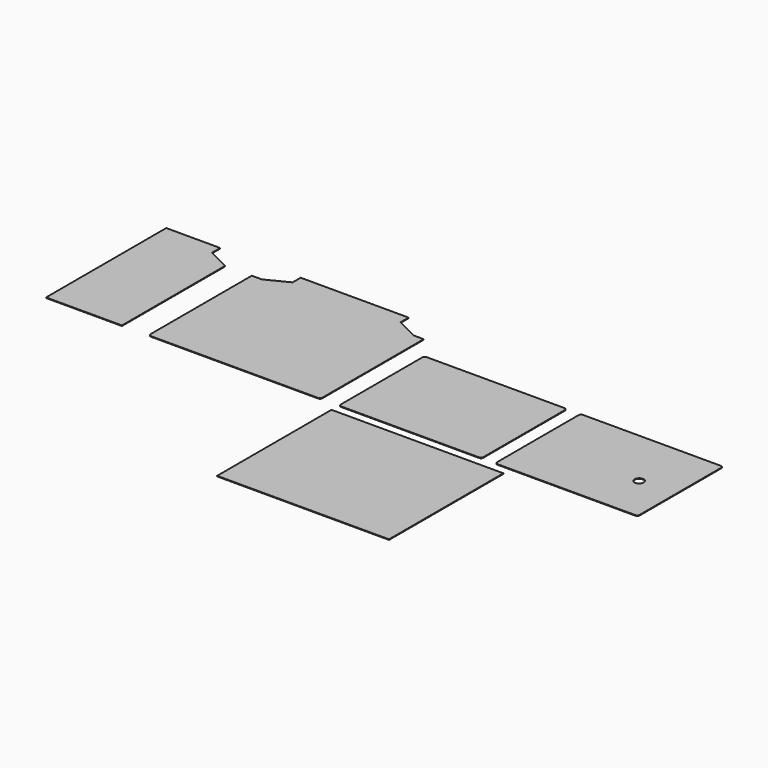
from build123d import *

# Parameters (mm, degrees)
F0_R     = 12.5
F0_W     = 475
F0_H     = 395
F1_DEPTH = 1.6002


with BuildPart() as f1:
    # F0 (on Top) → F1 (new body)
    with BuildSketch(Plane.XY):
        with BuildLine():
            ThreePointArc((419.4, 288.65), (417.540128, 293.140128), (413.05, 295))
            Line((413.05, 295), (31.75, 295))
            ThreePointArc((31.75, 295), (27.259872, 293.140128), (25.4, 288.65))
            Line((25.4, 288.65), (25.4, 6.35))
            ThreePointArc((25.4, 6.35), (27.259872, 1.859872), (31.75, 0))
            Line((31.75, 0), (413.05, 0))
            ThreePointArc((413.05, 0), (417.540128, 1.859872), (419.4, 6.35))
            Line((419.4, 6.35), (419.4, 288.65))
        make_face()
        with BuildLine():
            ThreePointArc((457.2, 6.35), (459.059872, 1.859872), (463.55, 0))
            Line((463.55, 0), (844.85, 0))
            ThreePointArc((844.85, 0), (849.340128, 1.859872), (851.2, 6.35))
            Line((851.2, 6.35), (851.2, 288.65))
            ThreePointArc((851.2, 288.65), (849.340128, 293.140128), (844.85, 295))
            Line((844.85, 295), (463.55, 295))
            ThreePointArc((463.55, 295), (459.059872, 293.140128), (457.2, 288.65))
            Line((457.2, 288.65), (457.2, 6.35))
        make_face()
        with Locations((751.2, 130)):
            Circle(F0_R, mode=Mode.SUBTRACT)
        with BuildLine():
            Line((-494.05, 0), (-31.75, 0))
            ThreePointArc((-31.75, 0), (-27.259872, 1.859872), (-25.4, 6.35))
            Line((-25.4, 6.35), (-25.4, 356.58))
            Line((-25.4, 356.58), (-53.34, 356.58))
            Line((-53.34, 356.58), (-113.675, 387.06))
            Line((-113.675, 387.06), (-113.675, 415))
            Line((-113.675, 415), (-412.125, 415))
            Line((-412.125, 415), (-412.125, 387.06))
            Line((-412.125, 387.06), (-472.46, 356.58))
            Line((-472.46, 356.58), (-500.4, 356.58))
            Line((-500.4, 356.58), (-500.4, 6.35))
            ThreePointArc((-500.4, 6.35), (-498.540128, 1.859872), (-494.05, 0))
        make_face()
        Polygon((-783.6027, 0), (-574.04, 0), (-574.04, 356.5906), (-634.375, 387.0706), (-634.375, 415.0106), (-783.6027, 415.0106), align=None)
        with Locations((262.9, -222.9)):
            Rectangle(F0_W, F0_H)
    extrude(amount=F1_DEPTH)


solid = f1.part
